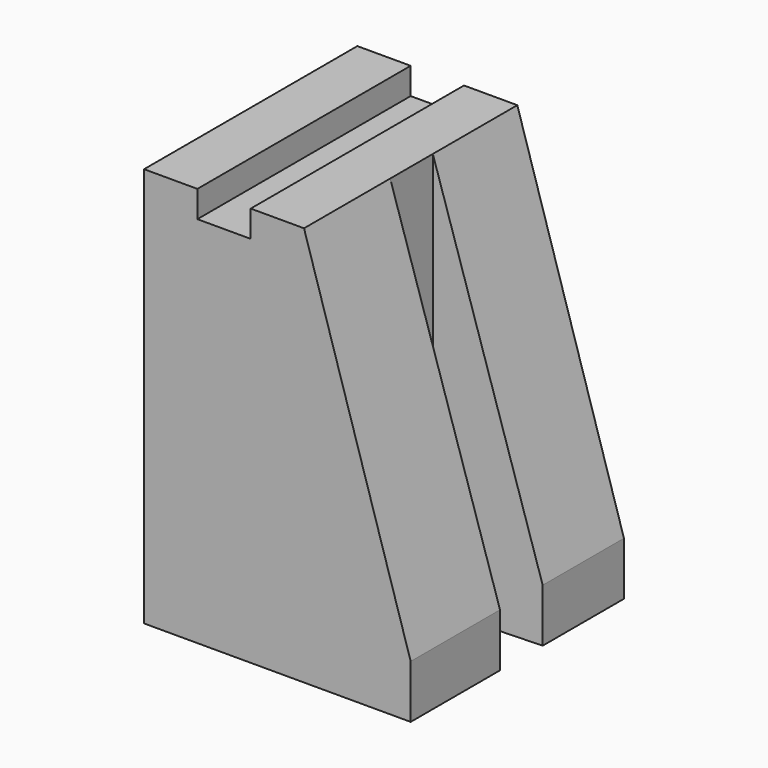
from build123d import *

# Parameters (mm, degrees)
F1_DEPTH = 100
F3_DEPTH = 150


with BuildPart() as f1:
    # F0 (on Front) → F1 (new body)
    with BuildSketch(Plane.XZ):
        Polygon((0, 150), (0, 0), (100, 0), (100, 20), (60, 150), (40, 150), (40, 140), (20, 140), (20, 150), align=None)
    extrude(amount=F1_DEPTH)

    # F2 (on face) → F3 (cut)
    with BuildSketch(Plane.XY.offset(150)):
        Polygon((60, -39.599304), (60, -59.600861), (148.85289, -56.28293), (148.106573, -36.29686), align=None)
    extrude(amount=-F3_DEPTH, mode=Mode.SUBTRACT)


solid = f1.part
